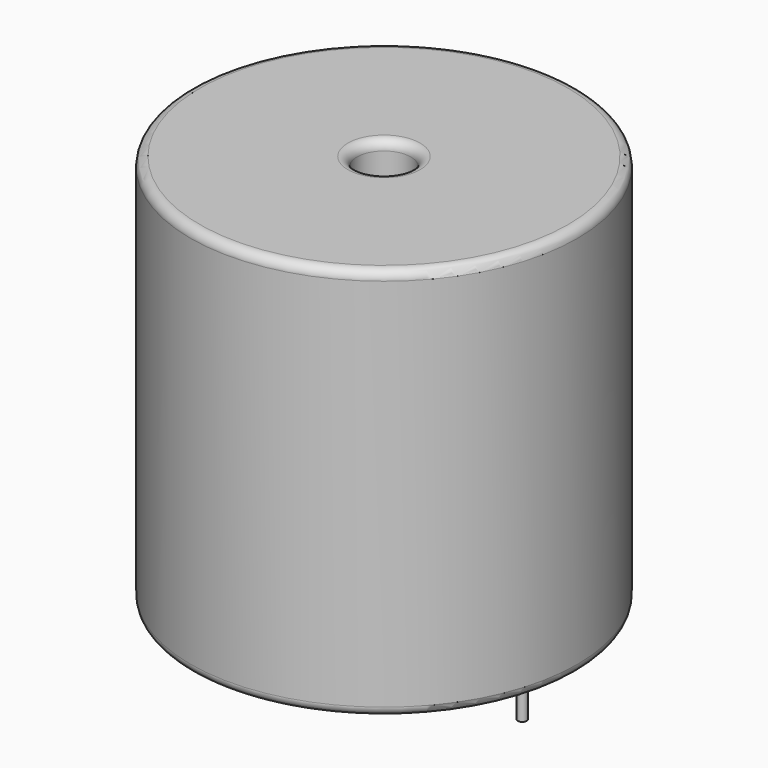
from build123d import *

# Parameters (mm, degrees)
SKETCH001_R       = 0.25
PAD001_DEPTH      = 10.67
PAD001_DEPTH_BACK = 3.5
SKETCH_R          = 10.5
SKETCH_R_2        = 1.46
PAD_DEPTH         = 21.34
FILLET_R          = 0.5


with BuildPart() as pad001:
    # Sketch001 → Pad001 (new body, two sides)
    with BuildSketch(Plane.XY.offset(0.5)) as pad001_sk:
        Circle(SKETCH001_R)
        with Locations((15, 0)):
            Circle(SKETCH001_R)
    extrude(amount=PAD001_DEPTH)
    extrude(pad001_sk.sketch, amount=-PAD001_DEPTH_BACK)


with BuildPart() as fillet_body:
    # Sketch → Pad (new body)
    with BuildSketch(Plane.XY.offset(0.1)):
        with Locations((7.5, 0)):
            Circle(SKETCH_R)
        with Locations((7.5, 0)):
            Circle(SKETCH_R_2, mode=Mode.SUBTRACT)
    extrude(amount=PAD_DEPTH)

    # Fillet
    fillet_edges = [fillet_body.edges().sort_by_distance(p)[0] for p in [
        (6.04, 0, 21.44),
        (-3, 0, 21.44),
        (-3, 0, 0.1),
    ]]
    fillet(fillet_edges, radius=FILLET_R)


solid = Compound([pad001.part, fillet_body.part])
